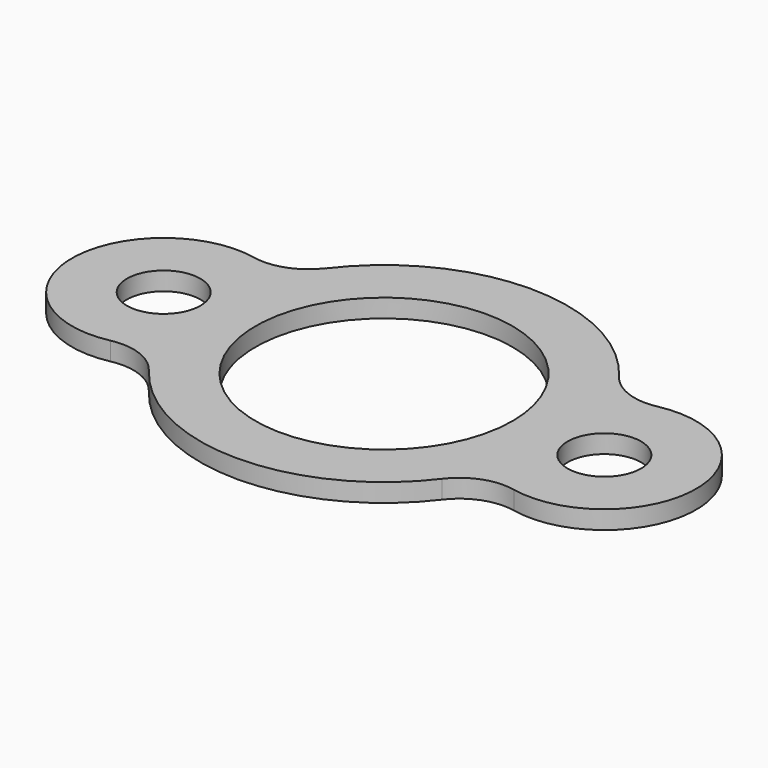
from build123d import *

# Parameters (mm, degrees)
F0_R     = 12.7
F0_R_2   = 44.45
F1_DEPTH = 6.35


with BuildPart() as f1:
    # F0 (on Top) → F1 (new body)
    with BuildSketch(Plane.XY):
        with BuildLine():
            ThreePointArc((-50.825601, 38.253471), (-59.266449, 31.925086), (-69.783439, 31.094859))
            ThreePointArc((-69.783439, 31.094859), (-107.949998, -0.010447), (-69.762979, -31.09063))
            ThreePointArc((-69.762979, -31.09063), (-69.761122, -31.090245), (-69.759266, -31.089861))
            ThreePointArc((-69.759266, -31.089861), (-59.198353, -31.914391), (-50.716273, -38.260023))
            Line((-50.716273, -38.260023), (-50.692897, -38.242388))
            ThreePointArc((-50.692897, -38.242388), (-0.01246, -63.499999), (50.677885, -38.262279))
            ThreePointArc((50.677885, -38.262279), (59.174451, -31.910614), (69.750781, -31.088102))
            ThreePointArc((69.750781, -31.088102), (107.95, 0), (69.750781, 31.088102))
            ThreePointArc((69.750781, 31.088102), (59.174451, 31.910614), (50.677885, 38.262279))
            ThreePointArc((50.677885, 38.262279), (-0.047933, 63.499982), (-50.735592, 38.185726))
            Line((-50.735592, 38.185726), (-50.825601, 38.253471))
        make_face()
        with Locations((-76.2, 0)):
            Circle(F0_R, mode=Mode.SUBTRACT)
        Circle(F0_R_2, mode=Mode.SUBTRACT)
        with Locations((76.2, 0)):
            Circle(F0_R, mode=Mode.SUBTRACT)
    extrude(amount=F1_DEPTH)


solid = f1.part
